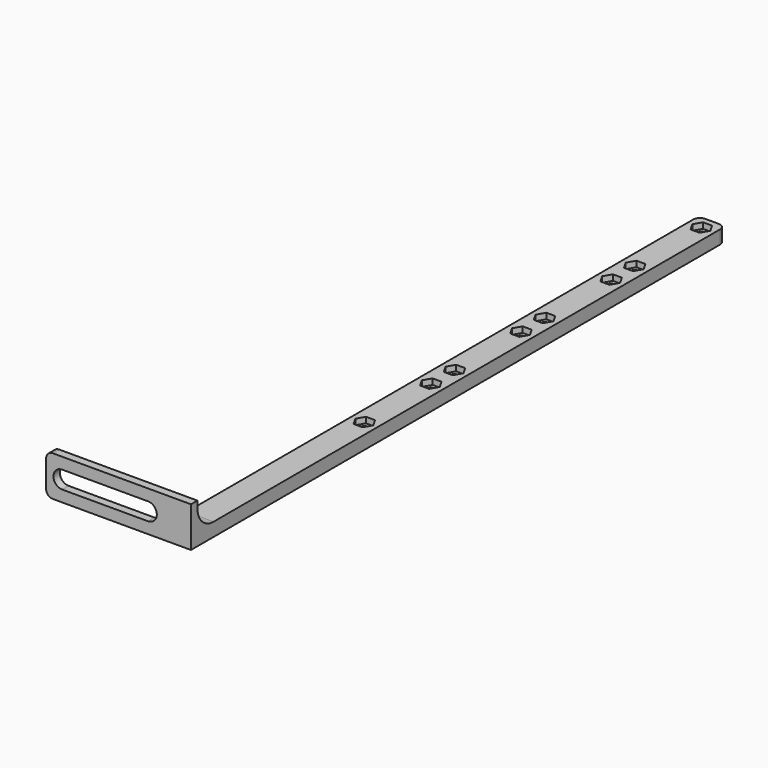
from build123d import *

# Parameters (mm, degrees)
PAD_DEPTH                    = 5
POCKET_DEPTH                 = 2.15
SKETCH002_R                  = 1.6
HOLE_DEPTH                   = 501.352755
POCKET_LINEARPATTERN_2_DEPTH = 2.15
SKETCH002_LINEARPATTERN_2_R  = 1.6
HOLE_LINEARPATTERN_2_DEPTH   = 501.352755
LINEARPATTERN001_COUNT       = 4
LINEARPATTERN001_PITCH       = 42
PAD001_DEPTH                 = 3
POCKET001_DEPTH              = 3.001
PAD002_DEPTH                 = 10


with BuildPart() as part:
    # Sketch → Pad (new body)
    with BuildSketch(Plane.XY):
        with BuildLine():
            Line((0, 5), (-2.5, 5))
            ThreePointArc((-2.5, 5), (-4.267767, 4.267767), (-5, 2.5))
            Line((-5, 2.5), (-5, -244))
            Line((-5, -244), (0, -244))
            Line((0, -244), (0, 5))
        make_face()
    pad = extrude(amount=PAD_DEPTH)

    # Mirrored: Pad across Sketch V_Axis
    add(pad.mirror(Plane(origin=(0, 0, 0), x_dir=(0, 0, 1), z_dir=(1, 0, 0))))

    # Sketch001 (on Face5 of Mirrored) → Pocket (cut)
    with BuildSketch(Plane.XY.offset(5)):
        Polygon((3.348632, 0), (1.674316, 2.9), (-1.674316, 2.9), (-3.348632, 0), (-1.674316, -2.9), (1.674316, -2.9), align=None)
    pocket = extrude(amount=-POCKET_DEPTH, mode=Mode.SUBTRACT)

    # Sketch002 (on Face19 of Pocket) → Hole (cut, through all)
    with BuildSketch(Plane.XY.offset(2.85)):
        Circle(SKETCH002_R)
    hole = extrude(amount=-HOLE_DEPTH, mode=Mode.SUBTRACT)

    # Sketch001 LinearPattern 2 → Pocket LinearPattern 2 (cut)
    with BuildSketch(Plane(origin=(0, -31, 5), x_dir=(1, 0, 0), z_dir=(0, 0, 1))):
        Polygon((3.348632, 0), (1.674316, 2.9), (-1.674316, 2.9), (-3.348632, 0), (-1.674316, -2.9), (1.674316, -2.9), align=None)
    pocket_linearpattern_2 = extrude(amount=-POCKET_LINEARPATTERN_2_DEPTH, mode=Mode.SUBTRACT)

    # Sketch002 LinearPattern 2 → Hole LinearPattern 2 (cut, through all)
    with BuildSketch(Plane(origin=(0, -31, 2.85), x_dir=(1, 0, 0), z_dir=(0, 0, 1))):
        Circle(SKETCH002_LINEARPATTERN_2_R)
    hole_linearpattern_2 = extrude(amount=-HOLE_LINEARPATTERN_2_DEPTH, mode=Mode.SUBTRACT)

    # LinearPattern001: Pocket, Hole, Pocket LinearPattern 2, Hole LinearPattern 2 ×4
    with Locations(*[(0, -i * LINEARPATTERN001_PITCH, 0) for i in range(1, LINEARPATTERN001_COUNT)]):
        add(pocket, mode=Mode.SUBTRACT)
        add(hole, mode=Mode.SUBTRACT)
        add(pocket_linearpattern_2, mode=Mode.SUBTRACT)
        add(hole_linearpattern_2, mode=Mode.SUBTRACT)

    # Sketch004 (on Face15 of MultiTransform) → Pad001 (join)
    with BuildSketch(Plane.XZ.offset(244)):
        with BuildLine():
            Line((5, 0), (-46.5, 0))
            ThreePointArc((-49, 2.5), (-48.267767, 0.732233), (-46.5, 0))
            Line((-49, 2.5), (-49, 7.5))
            Line((-49, 7.5), (5, 7.5))
            Line((5, 7.5), (5, 0))
        make_face()
    pad001 = extrude(amount=-PAD001_DEPTH)

    # Mirrored001: Pad001 across face of Pad001
    add(pad001.mirror(Plane(origin=(-22, -242.5, 7.5), x_dir=(1, 0, 0), z_dir=(0, 0, 1))))

    # Sketch005 (on Face51 of Mirrored001) → Pocket001 (cut, through all)
    with BuildSketch(Plane(origin=(0, -241, 0), x_dir=(-1, 0, 0), z_dir=(0, 1, 0))):
        with BuildLine():
            ThreePointArc((43, 4.235), (46.265, 7.5), (43, 10.765))
            Line((43, 10.765), (11, 10.765))
            ThreePointArc((11, 10.765), (7.735, 7.5), (11, 4.235))
            Line((43, 4.235), (11, 4.235))
        make_face()
    extrude(amount=-POCKET001_DEPTH, mode=Mode.SUBTRACT)

    # Sketch007 (on Face52 of Pocket001) → Pad002 (join)
    with BuildSketch(Plane.YZ.offset(5)):
        with BuildLine():
            Line((-241, 5), (-233.499977, 5))
            ThreePointArc((-241, 12.500001), (-238.803293, 7.196691), (-233.499977, 5))
            Line((-241, 5), (-241, 12.500001))
        make_face()
    extrude(amount=-PAD002_DEPTH)


solid = part.part
